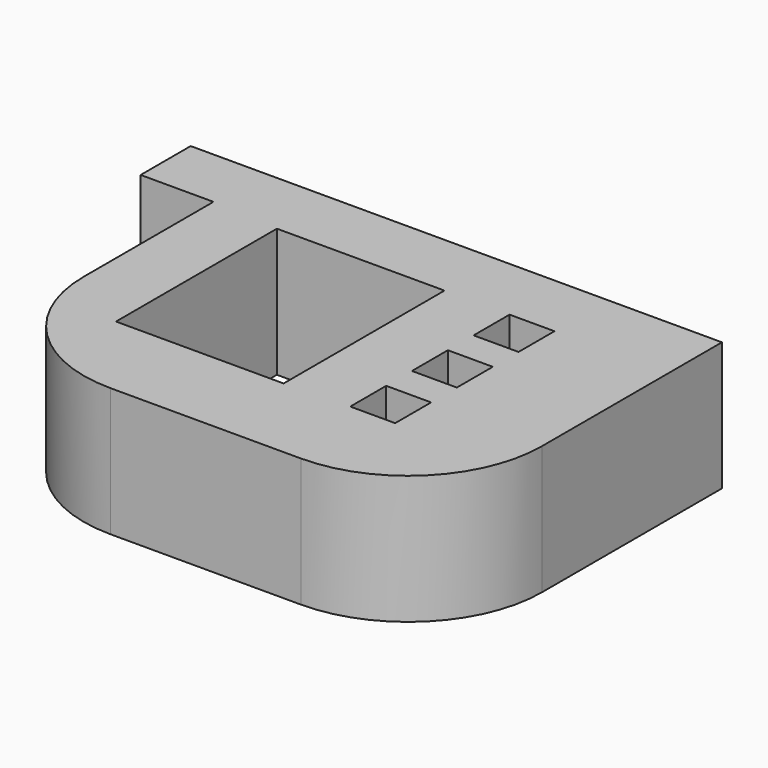
from build123d import *

# Parameters (mm, degrees)
F0_W     = 68.38
F0_H     = 53.52
F1_DEPTH = 19.18835
F2_W     = 9.33
F2_H     = 9.33
F3_DEPTH = 10.86
F4_R     = 20
F5_R     = 20
F7_W     = 25
F7_H     = 30
F7_W_2   = 6.7
F7_H_2   = 6.7
F8_DEPTH = 29.55052


with BuildPart() as f1:
    # F0 (on Top) → F1 (new body)
    with BuildSketch(Plane.XY):
        Rectangle(F0_W, F0_H)
    extrude(amount=F1_DEPTH)

    # F2 (on face) → F3 (join)
    with BuildSketch(Plane(origin=(-34.19, 0, 0), x_dir=(0, -1, 0), z_dir=(-1, 0, 0))):
        with Locations((-22.095, 14.52335)):
            Rectangle(F2_W, F2_H)
    extrude(amount=F3_DEPTH)

    # F4
    f4_edges = [f1.edges().sort_by_distance(p)[0] for p in [
        (34.19, -26.76, 9.594175),
    ]]
    fillet(f4_edges, radius=F4_R)

    # F5
    f5_edges = [f1.edges().sort_by_distance(p)[0] for p in [
        (-34.19, -26.76, 9.594175),
    ]]
    fillet(f5_edges, radius=F5_R)

    # F7 (on face) → F8 (cut)
    with BuildSketch(Plane.XY):
        with Locations((-11.69, 1.76)):
            Rectangle(F7_W, F7_H)
        with Locations((13.863151, 13.41)):
            Rectangle(F7_W_2, F7_H_2)
        with Locations((13.863151, 1.91)):
            Rectangle(F7_W_2, F7_H_2)
        with Locations((13.863151, -9.59)):
            Rectangle(F7_W_2, F7_H_2)
    extrude(amount=F8_DEPTH, mode=Mode.SUBTRACT)


solid = f1.part
